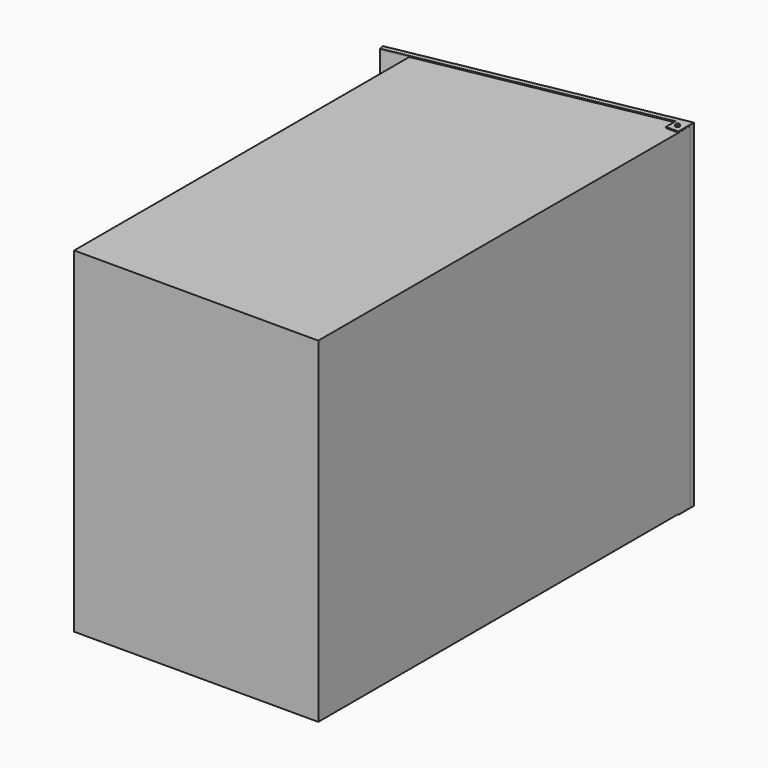
from build123d import *

# Parameters (mm, degrees)
F1_DEPTH  = 127
F2_T      = -2.5
F3_R      = 0.75
F4_DEPTH  = 127.3
F5_DEPTH  = 0.4
F6_DEPTH  = 1
F7_DEPTH  = 127.74
F8_R      = 0.27
F9_R      = 0.265563
F11_DEPTH = 1.3
F12_DEPTH = 1.6


with BuildPart() as f1:
    # F0 (on Top) → F1 (new body)
    with BuildSketch(Plane.XY):
        Polygon((-41.444429, 43.441544), (-41.444429, -115.048564), (50.926136, -115.048564), (50.926136, 60.766279), align=None)
    extrude(amount=F1_DEPTH)

    # F2
    f2_openings = [f1.faces().sort_by_distance(p)[0] for p in [
        (4.740854, 52.103911, 63.5),
    ]]
    offset(amount=F2_T, openings=f2_openings)


with BuildPart() as f4:
    # F3 (on face) → F4 (new body)
    with BuildSketch(Plane.XY.offset(127)):
        Polygon((50.876804, 60.757026), (46.148901, 59.870276), (46.148901, 55.288203), (50.876804, 55.288203), align=None)
        with Locations((48.537518, 57.867441)):
            Circle(F3_R, mode=Mode.SUBTRACT)
        Polygon((-41.444429, 43.441544), (46.148901, 59.870276), (50.876804, 60.757026), (50.876804, 62.627344), (-51.416432, 43.441544), (-51.077561, 41.634784), align=None)
    extrude(amount=-F4_DEPTH)


with BuildPart() as f5:
    # F3 (on face) → F5 (new body)
    with BuildSketch(Plane.XY.offset(127)):
        Polygon((-41.444429, 43.441544), (46.148901, 59.870276), (50.876804, 60.757026), (50.876804, 62.627344), (-51.416432, 43.441544), (-51.077561, 41.634784), align=None)
        Polygon((50.876804, 60.757026), (46.148901, 59.870276), (46.148901, 55.288203), (50.876804, 55.288203), align=None)
        with Locations((48.537518, 57.867441)):
            Circle(F3_R, mode=Mode.SUBTRACT)
    extrude(amount=F5_DEPTH)


with BuildPart() as f6:
    # F3 (on face) → F6 (new body)
    with BuildSketch(Plane.XY.offset(127)):
        with Locations((48.537518, 57.867441)):
            Circle(F3_R)
    extrude(amount=F6_DEPTH)

    # F9
    f9_edges = [f6.edges().sort_by_distance(p)[0] for p in [
        (47.787518, 57.867441, 128),
    ]]
    fillet(f9_edges, radius=F9_R)


with BuildPart() as f7:
    # F3 (on face) → F7 (new body)
    with BuildSketch(Plane.XY.offset(127)):
        with Locations((48.537518, 57.867441)):
            Circle(F3_R)
    extrude(amount=-F7_DEPTH)

    # F8
    f8_edges = [f7.edges().sort_by_distance(p)[0] for p in [
        (47.787518, 57.867441, -0.74),
    ]]
    fillet(f8_edges, radius=F8_R)


with BuildPart() as f11:
    # F10 (on face) → F11 (new body)
    with BuildSketch(Plane(origin=(-41.444429, 0, 0), x_dir=(0, -1, 0), z_dir=(-1, 0, 0))):
        Polygon((-15, 95.5), (-15, 63.5), (-15, 31.5), (0, 31.5), (0, 95.5), align=None)
    extrude(amount=F11_DEPTH)


with BuildPart() as f12:
    # F10 (on face) → F12 (new body)
    with BuildSketch(Plane(origin=(-41.444429, 0, 0), x_dir=(0, -1, 0), z_dir=(-1, 0, 0))):
        Polygon((-15.406337, 30.964371), (-15, 30.964371), (0.493095, 30.964371), (0.493095, 96.00541), (-15.406337, 96.00541), align=None)
        Polygon((-15, 31.5), (-15, 63.5), (-15, 95.5), (0, 95.5), (0, 31.5), align=None, mode=Mode.SUBTRACT)
    extrude(amount=F12_DEPTH)


solid = Compound([f1.part, f4.part, f5.part, f6.part, f7.part, f11.part, f12.part])
